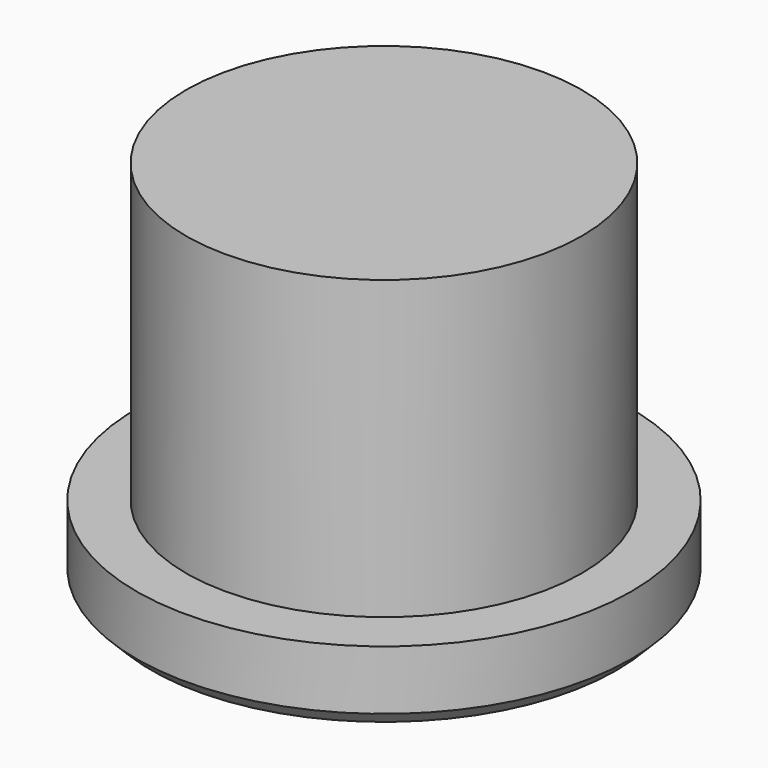
from build123d import *

# Parameters (mm, degrees)
F2_SIZE2 = 0.6
F2_SIZE  = 0.6


with BuildPart() as f1:
    # F0 (on Front) → F1 (revolve)
    with BuildSketch(Plane.XZ):
        Polygon((0, 15), (0, 0), (10, 0), (10, 3), (8, 3), (8, 15), align=None)
    revolve(axis=Axis((0, 0, 7.5), (0, 0, 1)))

    # F2
    f2_edges = [f1.edges().sort_by_distance(p)[0] for p in [
        (-10, 0, 0),
    ]]
    chamfer(f2_edges, length=F2_SIZE, length2=F2_SIZE2)


solid = f1.part
